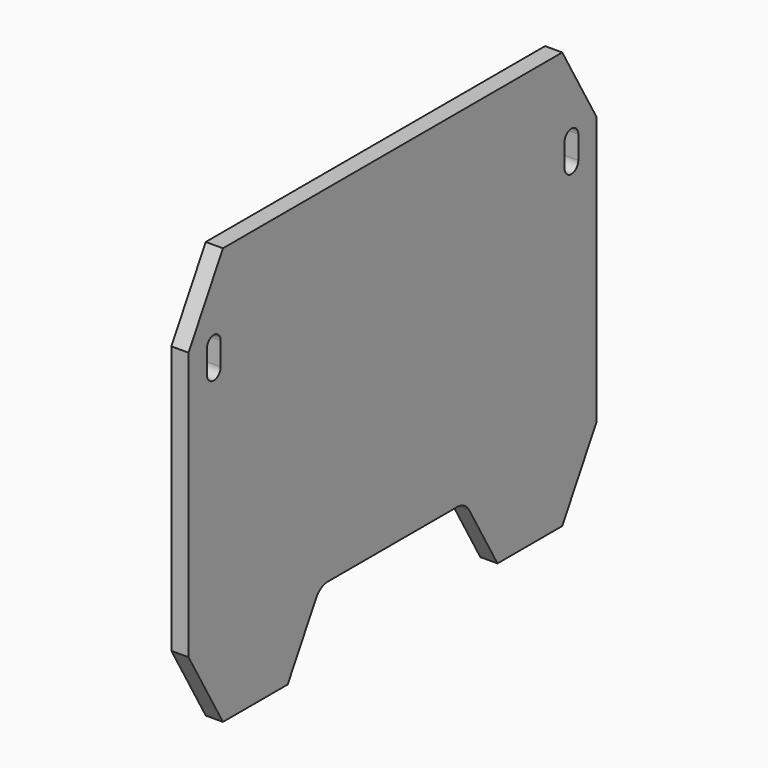
from build123d import *

# Parameters (mm, degrees)
F1_DEPTH = 38.1
F3_DEPTH = 76.201


with BuildPart() as f1:
    # F0 (on Right) → F1 (new body, symmetric)
    with BuildSketch(Plane.YZ):
        Polygon((939.8, 923.925), (-939.8, 923.925), (-1130.3, 593.969321), (-1130.3, -593.969321), (-939.8, -923.925), (939.8, -923.925), (1130.3, -593.969321), (1130.3, 593.969321), align=None)
        with BuildLine():
            Line((-1028.7, 466.725), (-1028.7, 568.325))
            ThreePointArc((-1028.7, 568.325), (-990.6, 606.425), (-952.5, 568.325))
            Line((-952.5, 568.325), (-952.5, 466.725))
            ThreePointArc((-952.5, 466.725), (-990.6, 428.625), (-1028.7, 466.725))
        make_face(mode=Mode.SUBTRACT)
        with BuildLine():
            ThreePointArc((952.5, 568.325), (990.6, 606.425), (1028.7, 568.325))
            Line((1028.7, 568.325), (1028.7, 466.725))
            ThreePointArc((1028.7, 466.725), (990.6, 428.625), (952.5, 466.725))
            Line((952.5, 466.725), (952.5, 568.325))
        make_face(mode=Mode.SUBTRACT)
    extrude(amount=F1_DEPTH, both=True)

    # F2 (on face) → F3 (cut, through all)
    with BuildSketch(Plane.YZ.offset(38.1)):
        with BuildLine():
            Line((357.515373, -612.775), (-357.515373, -612.775))
            ThreePointArc((-357.515373, -612.775), (-395.615373, -622.983864), (-423.506509, -650.875))
            Line((-423.506509, -650.875), (-581.152, -923.925))
            Line((-581.152, -923.925), (581.152, -923.925))
            Line((581.152, -923.925), (423.506509, -650.875))
            ThreePointArc((423.506509, -650.875), (395.615373, -622.983864), (357.515373, -612.775))
        make_face()
    extrude(amount=-F3_DEPTH, mode=Mode.SUBTRACT)


solid = f1.part
